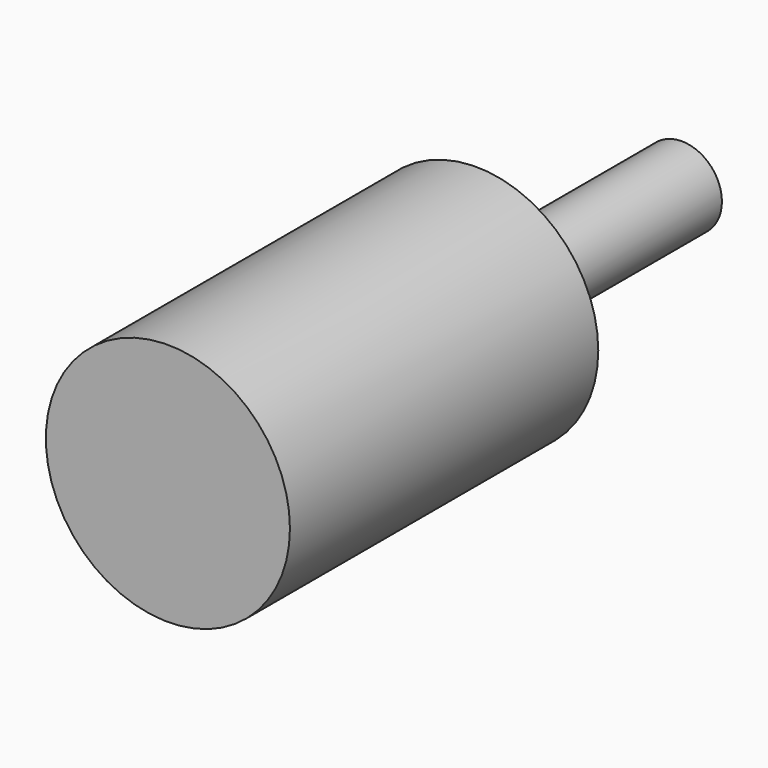
from build123d import *

# Parameters (mm, degrees)
F0_W = 15.875
F0_H = 101.6


with BuildPart() as f1:
    # F0 (on Top) → F1 (revolve)
    with BuildSketch(Plane.XY):
        with Locations((7.9375, 50.8)):
            Rectangle(F0_W, F0_H)
        Polygon((15.875, 0), (0, 0), (0, -152.4), (48.26, -152.4), (48.26, 0), align=None)
    revolve(axis=Axis((0, -76.2, 0), (0, -1, 0)))


solid = f1.part
